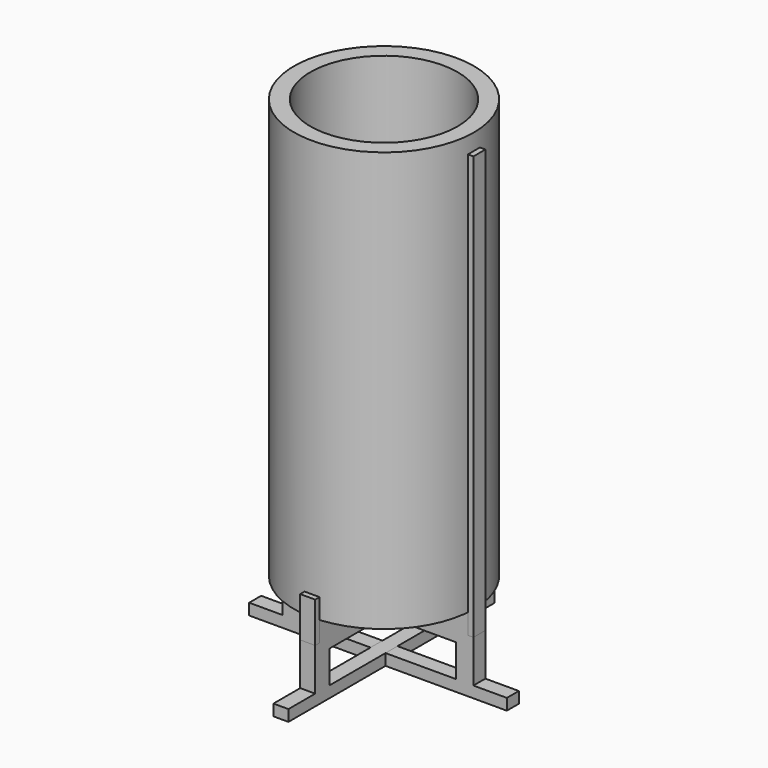
from build123d import *

# Parameters (mm, degrees)
F0_R      = 76.2
F0_R_2    = 62.357
F1_DEPTH  = 355.6
F3_DEPTH  = 6.35
F5_ANGLE  = 90
F7_DEPTH  = 12.7
F8_COUNT  = 2
F9_W      = 4.6355
F9_H      = 34.2086553574
F10_DEPTH = 12.7
F11_COUNT = 2


with BuildPart() as f1:
    # F0 (on Top) → F1 (new body)
    with BuildSketch(Plane.XY):
        Circle(F0_R)
        Circle(F0_R_2, mode=Mode.SUBTRACT)
    extrude(amount=F1_DEPTH)


with BuildPart() as f3:
    # F2 (on Front) → F3 (new body, symmetric)
    with BuildSketch(Plane.XZ):
        Polygon((76.2, 0), (0, 0), (0, -25.4), (65.91796875, -25.4), (65.91796875, -52.9020093381), (80.8355, -52.9020093381), (80.8355, -16.9544313103), (76.2, -16.9544313103), align=None)
        Polygon((0, -25.4), (0, 0), (-76.2, 0), (-76.2, -16.9544313103), (-80.8355, -16.9544313103), (-80.8355, -52.9020093381), (-65.91796875, -52.9020093381), (-65.91796875, -25.4), align=None)
        Polygon((80.8355, -52.9020093381), (65.91796875, -52.9020093381), (0, -52.9020093381), (0, -62.4663792551), (109.1753840446, -62.4663792551), (109.1753840446, -52.9020093381), align=None)
        Polygon((0, -52.9020093381), (-65.91796875, -52.9020093381), (-80.8355, -52.9020093381), (-109.1753840446, -52.9020093381), (-109.1753840446, -62.4663792551), (0, -62.4663792551), align=None)
    extrude(amount=F3_DEPTH, both=True)


with BuildPart() as f4_1:
    # F4: copy of F3
    add(f3.part)


with BuildPart() as f3_1:
    # F5: moved
    add(f3.part.rotate(Axis((0, 0, -12.7), (0, 0, -1)), F5_ANGLE))


with BuildPart() as f7:
    # F6 (on face) → F7 (new body)
    with BuildSketch(Plane.XZ.offset(6.35)):
        Polygon((76.2, 0), (76.2, -16.9544313103), (80.8355, -16.9544313103), (80.8355, 341.8205686897), (76.2, 341.8205686897), align=None)
    extrude(amount=-F7_DEPTH)


with BuildPart() as f8_1:
    # F8: instance of F7
    add(f7.part.rotate(Axis((0, 0, -12.7), (0, 0, -1)), 1 * 360 / F8_COUNT))


with BuildPart() as f10:
    # F9 (on face) → F10 (new body)
    with BuildSketch(Plane(origin=(-6.35, 0, 0), x_dir=(0, -1, 0), z_dir=(-1, 0, 0))):
        with Locations((78.51775, 0.1498963684)):
            Rectangle(F9_W, F9_H)
    extrude(amount=-F10_DEPTH)


with BuildPart() as f11_1:
    # F11: instance of F10
    add(f10.part.rotate(Axis((0, 0, -12.7), (0, 0, -1)), 1 * 360 / F11_COUNT))


solid = Compound([f1.part, f4_1.part, f3_1.part, f7.part, f8_1.part, f10.part, f11_1.part])
